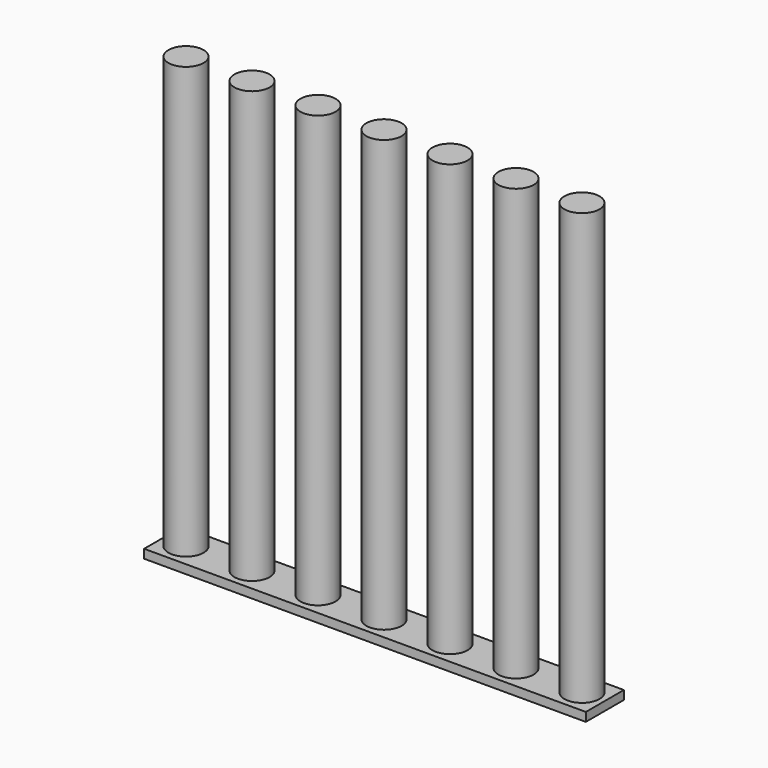
from build123d import *

# Parameters (mm, degrees)
F0_W     = 127.508
F0_H     = 13.716
F1_DEPTH = 2.54
F2_R     = 5.08
F3_DEPTH = 127


with BuildPart() as f1:
    # F0 (on Top) → F1 (new body)
    with BuildSketch(Plane.XY):
        Rectangle(F0_W, F0_H)
    extrude(amount=F1_DEPTH)

    # F2 (on Top) → F3 (join)
    with BuildSketch(Plane.XY):
        Circle(F2_R)
        with Locations((19.05, 0)):
            Circle(F2_R)
        with Locations((38.1, 0)):
            Circle(F2_R)
        with Locations((57.15, 0)):
            Circle(F2_R)
        with Locations((-19.05, 0)):
            Circle(F2_R)
        with Locations((-38.1, 0)):
            Circle(F2_R)
        with Locations((-57.15, 0)):
            Circle(F2_R)
    extrude(amount=F3_DEPTH)


solid = f1.part
